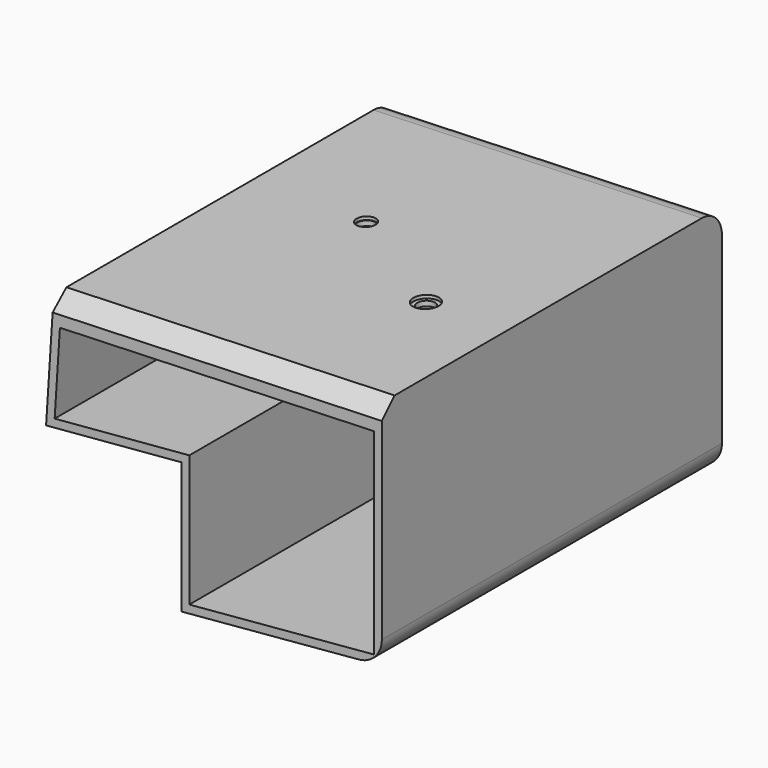
from build123d import *

# Parameters (mm, degrees)
F0_W            = 71.5283732861
F0_H            = 64.1776323318
F1_DEPTH        = 89.916
F2_SIZE2        = 25.4
F2_SIZE         = 5.08
F5_DEPTH        = 135.128
F6_SIZE         = 5.08
F7_T            = -2.54
F9_D            = 5.5
F9_CBORE_D      = 6
F9_CBORE_DEPTH  = 1
F10_D           = 5.5
F10_CBORE_D     = 8
F10_CBORE_DEPTH = 1
F11_R           = 8
F12_R           = 8


with BuildPart() as f1:
    # F0 (on Front) → F1 (new body)
    with BuildSketch(Plane.XZ):
        with Locations((6.926660426, -4.6648941934)):
            Rectangle(F0_W, F0_H)
    extrude(amount=F1_DEPTH)

    # F2
    f2_edges = [f1.edges().sort_by_distance(p)[0] for p in [
        (42.690847, -44.958, 27.423922),
    ]]
    f2_side = f1.faces().sort_by_distance((6.92666, -44.958, 27.423922))[0]
    chamfer(f2_edges, length=F2_SIZE, length2=F2_SIZE2, reference=f2_side)


with BuildPart() as f5:
    # F4 (on Front) → F5 (new body)
    with BuildSketch(Plane.XZ):
        Polygon((40.32824561, 37.3740494251), (-64.0106573701, 33.7145887315), (-66.4161741734, -3.6638199817), (-23.4177149832, 0), (-23.4177149832, -41.7669005692), (40.32824561, -36.2140648067), align=None)
    extrude(amount=F5_DEPTH)

    # F6
    f6_edges = [f5.edges().sort_by_distance(p)[0] for p in [
        (-11.841206, -135.128, 35.544319),
    ]]
    chamfer(f6_edges, length=F6_SIZE)

    # F7
    f7_openings = [f5.faces().sort_by_distance(p)[0] for p in [
        (-3.73286, -135.128, 0.037818),
    ]]
    offset(amount=F7_T, openings=f7_openings, kind=Kind.INTERSECTION)

    # F9 (through all)
    with Locations(Plane(origin=(-1.2596562909, 0, 35.915443977), x_dir=(0.9993855151, 0, 0.0350512791), z_dir=(-0.0350512791, 0, 0.9993855151))):
        with Locations((-25.099163875, -58.0401532352)):
            CounterBoreHole(F9_D / 2, F9_CBORE_D / 2, F9_CBORE_DEPTH)

    # F10 (through all)
    with Locations(Plane(origin=(-1.2596562909, 0, 35.915443977), x_dir=(0.9993855151, 0, 0.0350512791), z_dir=(-0.0350512791, 0, 0.9993855151))):
        with Locations((15.1631087065, -84.5927745104)):
            CounterBoreHole(F10_D / 2, F10_CBORE_D / 2, F10_CBORE_DEPTH)

    # F11
    f11_edges = [f5.edges().sort_by_distance(p)[0] for p in [
        (-11.841206, 0, 35.544319),
    ]]
    fillet(f11_edges, radius=F11_R)

    # F12
    f12_edges = [f5.edges().sort_by_distance(p)[0] for p in [
        (40.328246, -67.564, -36.214065),
    ]]
    fillet(f12_edges, radius=F12_R)


solid = f5.part
